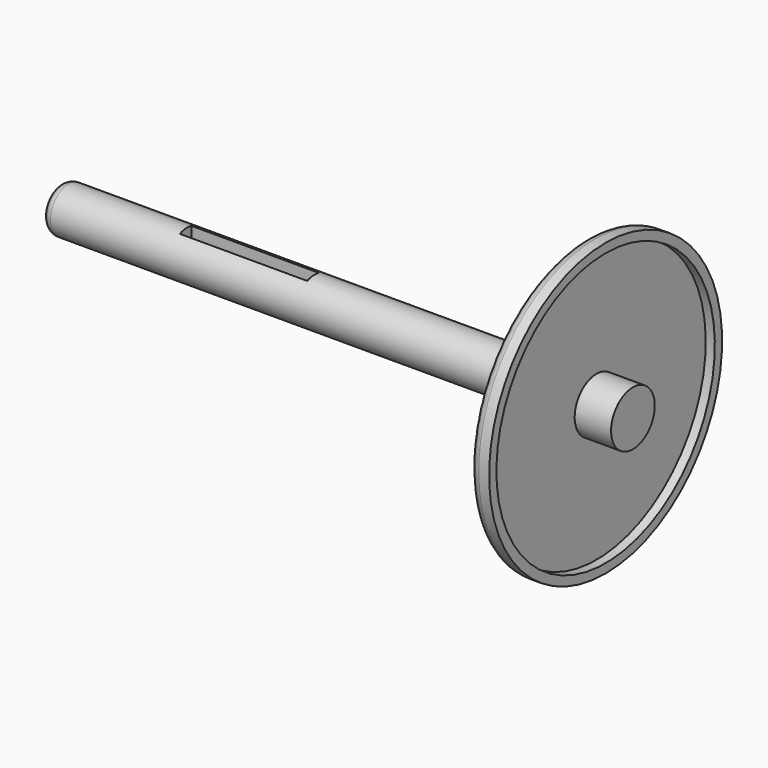
from build123d import *

# Parameters (mm, degrees)
F2_W     = 70
F2_H     = 8
F3_DEPTH = 12.501
F4_R     = 5
F5_R     = 5


with BuildPart() as f1:
    # F0 (on Front) → F1 (revolve)
    with BuildSketch(Plane.XZ):
        Polygon((0, 12.5), (0, 0), (295, 0), (315, 0), (315, 15), (295, 15), (295, 75), (300, 75), (300, 80), (290, 80), (280, 12.5), align=None)
    revolve(axis=Axis((147.5, 0, 0), (-1, 0, 0)))

    # F2 (on Top) → F3 (cut, through all)
    with BuildSketch(Plane.XY):
        with Locations((105, -0.9058431759)):
            Rectangle(F2_W, F2_H)
    extrude(amount=F3_DEPTH, mode=Mode.SUBTRACT)

    # F4
    f4_edges = [f1.edges().sort_by_distance(p)[0] for p in [
        (290, 0, -80),
        (280, 0, -12.5),
    ]]
    fillet(f4_edges, radius=F4_R)

    # F5
    f5_edges = [f1.edges().sort_by_distance(p)[0] for p in [
        (0, 0, -12.5),
    ]]
    fillet(f5_edges, radius=F5_R)


solid = f1.part
